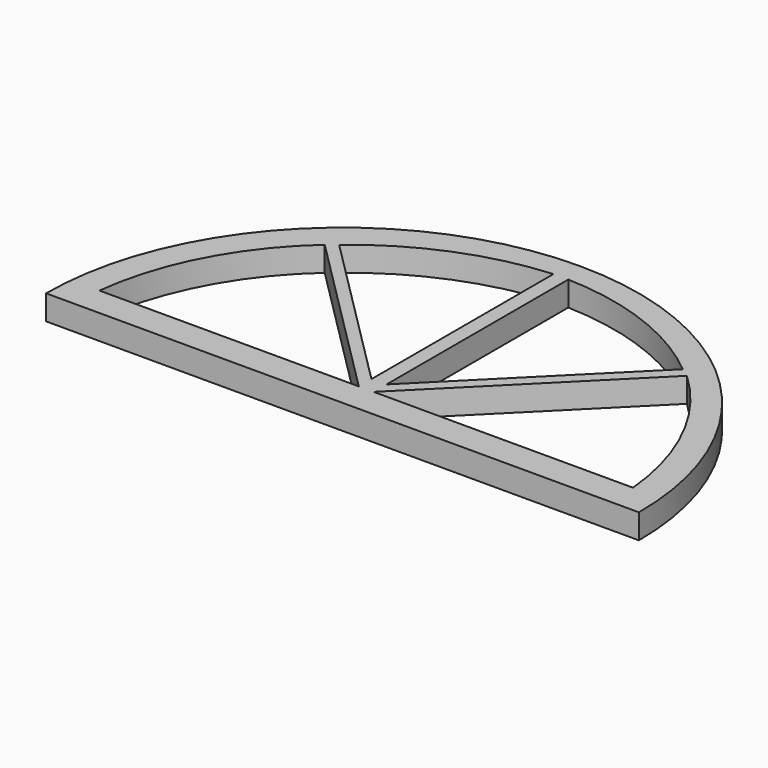
from build123d import *

# Parameters (mm, degrees)
F1_DEPTH = 25


with BuildPart() as f1:
    # F0 (on Top) → F1 (new body)
    with BuildSketch(Plane.XY):
        with BuildLine():
            Line((-256.241464, -247.179763), (343.758536, -247.179763))
            ThreePointArc((343.758536, -247.179763), (43.758536, 52.820237), (-256.241464, -247.179763))
        make_face()
        with BuildLine():
            Line((-136.195825, -44.725402), (36.258536, -217.179763))
            Line((36.258536, -217.179763), (-226.241464, -217.179763))
            ThreePointArc((-226.241464, -217.179763), (-197.220234, -122.597483), (-136.195825, -44.725402))
        make_face(mode=Mode.SUBTRACT)
        with BuildLine():
            Line((313.758536, -217.179763), (51.258536, -217.179763))
            Line((51.258536, -217.179763), (227.3847, -41.053599))
            ThreePointArc((227.3847, -41.053599), (286.681281, -121.216359), (313.758536, -217.179763))
        make_face(mode=Mode.SUBTRACT)
        with BuildLine():
            Line((36.258536, 29.045533), (36.258536, -201.179948))
            Line((36.258536, -201.179948), (-127.310444, -37.610967))
            ThreePointArc((-127.310444, -37.610967), (-50.779784, 8.609704), (36.258536, 29.045533))
        make_face(mode=Mode.SUBTRACT)
        with BuildLine():
            Line((217.833869, -34.286964), (51.258536, -200.862297))
            Line((51.258536, -200.862297), (51.258536, 29.045533))
            ThreePointArc((51.258536, 29.045533), (139.854105, 11.339977), (217.833869, -34.286964))
        make_face(mode=Mode.SUBTRACT)
    extrude(amount=F1_DEPTH)


solid = f1.part
